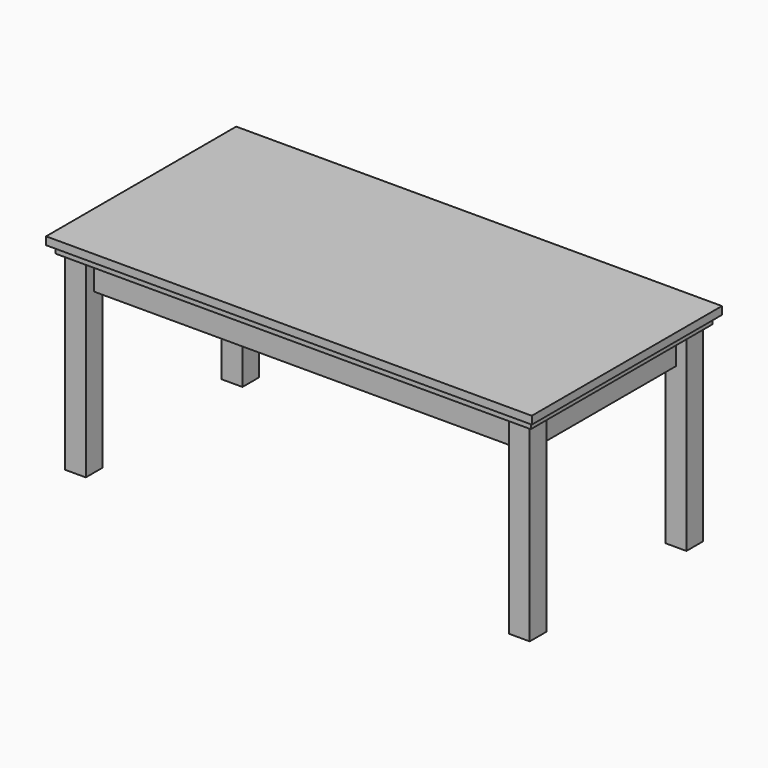
from build123d import *

# Parameters (mm, degrees)
F0_W     = 186
F0_H     = 91
F1_DEPTH = 3
F2_W     = 182
F2_H     = 87
F2_W_2   = 178
F2_H_2   = 83
F3_DEPTH = 3
F4_W     = 8
F4_H     = 8
F5_DEPTH = 76
F6_W     = 4
F6_H     = 67
F6_W_2   = 162
F6_H_2   = 4
F7_DEPTH = 15


with BuildPart() as f1:
    # F0 (on Top) → F1 (new body)
    with BuildSketch(Plane.XY):
        Rectangle(F0_W, F0_H)
    extrude(amount=F1_DEPTH)

    # F2 (on face) → F3 (join)
    with BuildSketch(Plane(origin=(0, 0, 0), x_dir=(1, 0, 0), z_dir=(0, 0, -1))):
        Rectangle(F2_W, F2_H)
        Rectangle(F2_W_2, F2_H_2, mode=Mode.SUBTRACT)
    extrude(amount=F3_DEPTH)

    # F4 (on face) → F5 (join)
    with BuildSketch(Plane(origin=(0, 0, 0), x_dir=(1, 0, 0), z_dir=(0, 0, -1))):
        with Locations((-85, 37.5)):
            Rectangle(F4_W, F4_H)
        with Locations((-85, -37.5)):
            Rectangle(F4_W, F4_H)
        with Locations((85, 37.5)):
            Rectangle(F4_W, F4_H)
        with Locations((85, -37.5)):
            Rectangle(F4_W, F4_H)
    extrude(amount=F5_DEPTH)

    # F6 (on face) → F7 (join)
    with BuildSketch(Plane(origin=(0, 0, 0), x_dir=(1, 0, 0), z_dir=(0, 0, -1))):
        with Locations((83, 0)):
            Rectangle(F6_W, F6_H)
        with Locations((0, -35.5)):
            Rectangle(F6_W_2, F6_H_2)
        with Locations((-83, 0)):
            Rectangle(F6_W, F6_H)
        with Locations((0, 35.5)):
            Rectangle(F6_W_2, F6_H_2)
    extrude(amount=F7_DEPTH)


solid = f1.part
